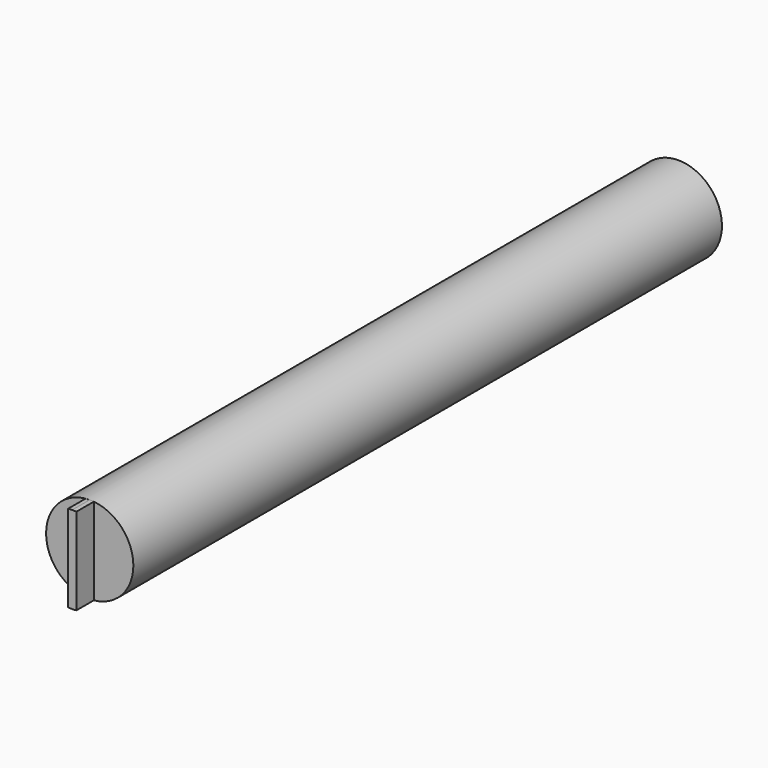
from build123d import *

# Parameters (mm, degrees)
F0_W     = 856.515822627
F0_H     = 50.8
F3_DEPTH = 25.4
F4_DEPTH = 0.508


with BuildPart() as f1:
    # F0 (on Right) → F1 (revolve)
    with BuildSketch(Plane.YZ):
        Rectangle(F0_W, F0_H)
    revolve(axis=Axis((0, 0, 25.4), (0, -1, 0)))

    # F2 (on face) → F3 (join)
    with BuildSketch(Plane.XZ.offset(428.2579113135)):
        with BuildLine():
            Line((-4.7912972498, 75.9735451661), (-4.7912972498, -25.1735451661))
            ThreePointArc((-4.7912972498, -25.1735451661), (-2.3983229103, -25.3433547099), (0, -25.4))
            ThreePointArc((0, -25.4), (2.3983229103, -25.3433547099), (4.7912972498, -25.1735451661))
            Line((4.7912972498, -25.1735451661), (4.7912972498, 75.9735451661))
            Line((4.7912972498, 75.9735451661), (0, 76.2))
            Line((0, 76.2), (-4.7912972498, 75.9735451661))
        make_face()
    extrude(amount=F3_DEPTH)

    # F2 (on face) → F4 (join)
    with BuildSketch(Plane.XZ.offset(428.2579113135)):
        with BuildLine():
            Line((-4.7912972498, 75.9735451661), (-4.7912972498, -25.1735451661))
            ThreePointArc((-4.7912972498, -25.1735451661), (-2.3983229103, -25.3433547099), (0, -25.4))
            ThreePointArc((0, -25.4), (2.3983229103, -25.3433547099), (4.7912972498, -25.1735451661))
            Line((4.7912972498, -25.1735451661), (4.7912972498, 75.9735451661))
            Line((4.7912972498, 75.9735451661), (0, 76.2))
            Line((0, 76.2), (-4.7912972498, 75.9735451661))
        make_face()
    extrude(amount=-F4_DEPTH)


solid = f1.part
